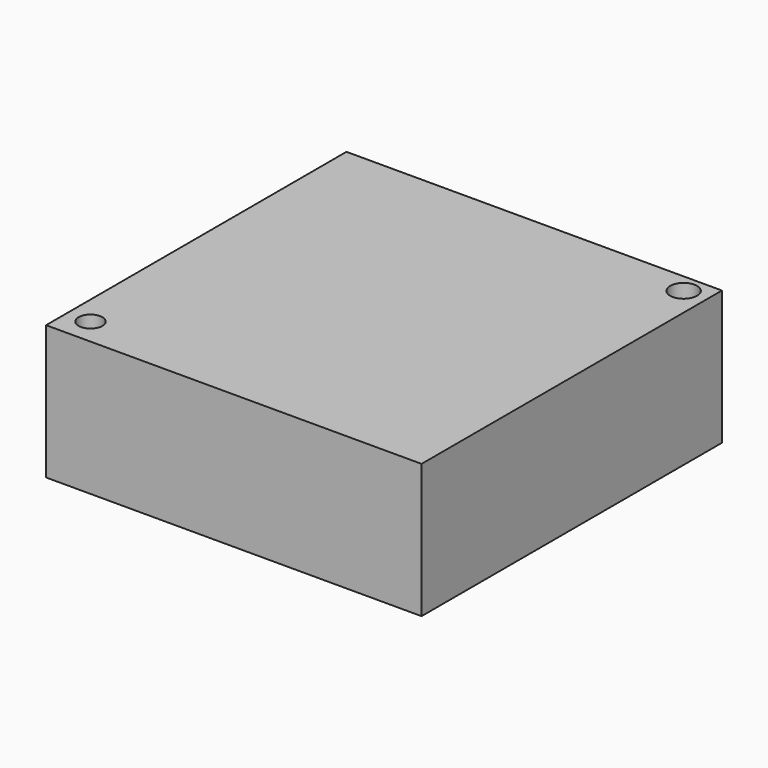
from build123d import *

# Parameters (mm, degrees)
F1_DEPTH = 12.5
F2_R     = 2.219966
F2_R_2   = 2.507517
F3_DEPTH = 26


with BuildPart() as f1:
    # F0 (on Top) → F1 (new body, symmetric)
    with BuildSketch(Plane.XY):
        Polygon((35, -35), (35, 35), (-35, 35), align=None)
        Polygon((35, -35), (-35, 35), (-35, -35), align=None)
    extrude(amount=F1_DEPTH, both=True)

    # F2 (on face) → F3 (cut)
    with BuildSketch(Plane.XY.offset(12.5)):
        with Locations((-30.662185, -30.06679)):
            Circle(F2_R)
        with Locations((30.71014, 31.437151)):
            Circle(F2_R_2)
    extrude(amount=-F3_DEPTH, mode=Mode.SUBTRACT)


solid = f1.part
